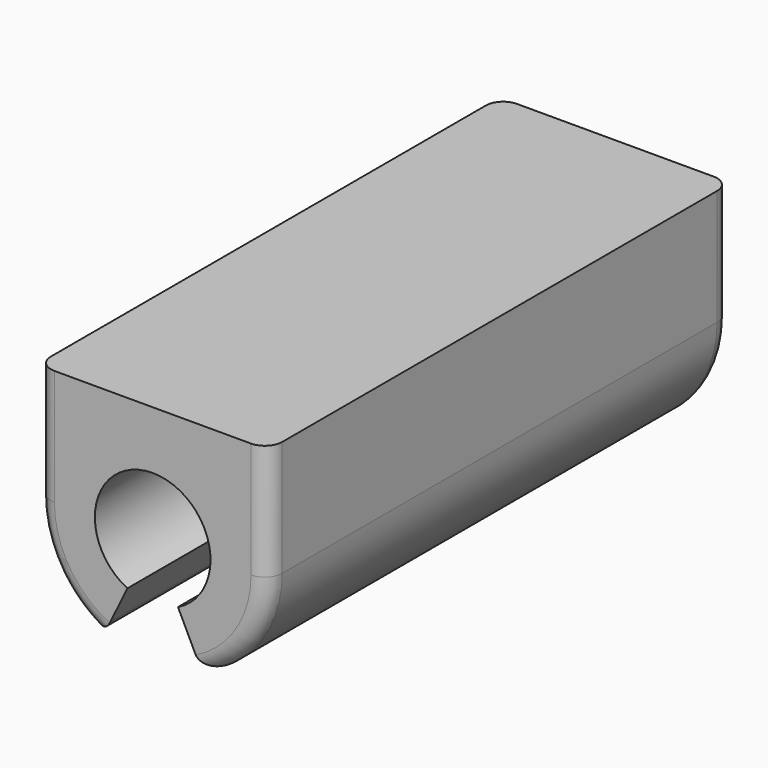
from build123d import *

# Parameters (mm, degrees)
F0_R     = 1
F1_DEPTH = 5
F3_DEPTH = 10.001
F4_R     = 0.3


with BuildPart() as f1:
    # F0 (on Front) → F1 (new body, symmetric)
    with BuildSketch(Plane.XZ):
        with BuildLine():
            Line((-2, 2), (-2, 0))
            ThreePointArc((-2, 0), (0, -2), (2, 0))
            Line((2, 0), (2, 2))
            Line((2, 2), (0, 2))
            Line((0, 2), (-2, 2))
        make_face()
        Circle(F0_R, mode=Mode.SUBTRACT)
    extrude(amount=F1_DEPTH, both=True)

    # F2 (on face) → F3 (cut, through all)
    with BuildSketch(Plane.XZ.offset(5)):
        with BuildLine():
            Line((0.875, -1.7984368212), (0, 0))
            Line((0, 0), (-0.875, -1.7984368212))
            ThreePointArc((-0.875, -1.7984368212), (0, -2), (0.875, -1.7984368212))
        make_face()
    extrude(amount=-F3_DEPTH, mode=Mode.SUBTRACT)

    # F4
    f4_edges = [f1.edges().sort_by_distance(p)[0] for p in [
        (-0.875, 0, -1.798437),
        (0.875, 0, -1.798437),
        (-1.695582, -5, -1.06066),
        (-2, -5, 1),
        (1.695582, -5, -1.06066),
        (1.695582, 5, -1.06066),
        (2, 5, 1),
        (-1.695582, 5, -1.06066),
        (-2, 5, 1),
    ]]
    fillet(f4_edges, radius=F4_R)


solid = f1.part
